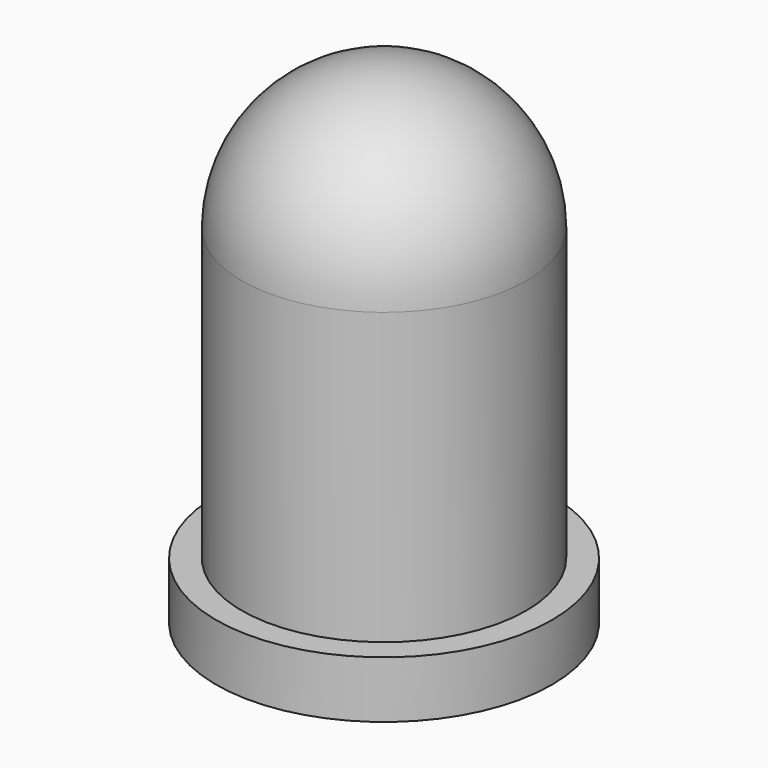
from build123d import *

# Parameters (mm, degrees)
F0_R     = 2.5
F1_DEPTH = 8.6
F2_R     = 2.5
F3_R     = 2.95
F4_DEPTH = 1


with BuildPart() as f1:
    # F0 (on Top) → F1 (new body)
    with BuildSketch(Plane.XY):
        Circle(F0_R)
    extrude(amount=F1_DEPTH)

    # F2
    f2_edges = [f1.edges().sort_by_distance(p)[0] for p in [
        (-2.5, 0, 8.6),
    ]]
    fillet(f2_edges, radius=F2_R)

    # F3 (on face) → F4 (join)
    with BuildSketch(Plane(origin=(0, 0, 0), x_dir=(1, 0, 0), z_dir=(0, 0, -1))):
        Circle(F3_R)
    extrude(amount=-F4_DEPTH)


solid = f1.part
